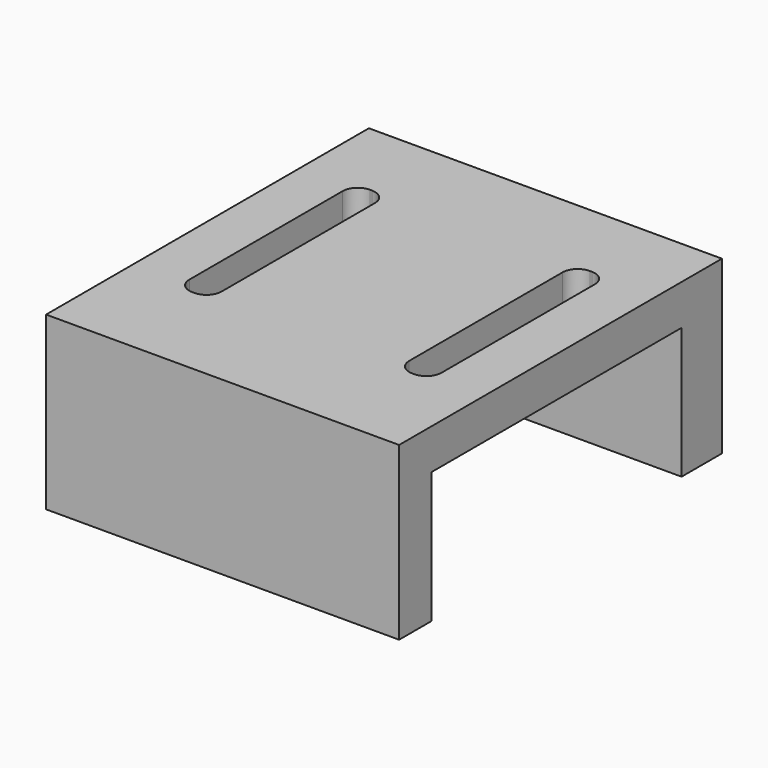
from build123d import *

# Parameters (mm, degrees)
F0_W     = 35
F0_H     = 40
F0_W_2   = 3.2
F0_H_2   = 22
F1_DEPTH = 17
F2_W     = 31
F2_H     = 13
F3_DEPTH = 35.001
F4_R     = 1.5


with BuildPart() as f1:
    # F0 (on Top) → F1 (new body)
    with BuildSketch(Plane.XY):
        Rectangle(F0_W, F0_H)
        with Locations((-10.9, 1)):
            Rectangle(F0_W_2, F0_H_2, mode=Mode.SUBTRACT)
        with Locations((10.9, 1)):
            Rectangle(F0_W_2, F0_H_2, mode=Mode.SUBTRACT)
    extrude(amount=F1_DEPTH)

    # F2 (on face) → F3 (cut, through all)
    with BuildSketch(Plane(origin=(-17.5, 0, 0), x_dir=(0, -1, 0), z_dir=(-1, 0, 0))):
        with Locations((0.5, 6.5)):
            Rectangle(F2_W, F2_H)
    extrude(amount=-F3_DEPTH, mode=Mode.SUBTRACT)

    # F4
    f4_edges = [f1.edges().sort_by_distance(p)[0] for p in [
        (-9.3, 12, 15),
        (-12.5, 12, 15),
        (-12.5, -10, 15),
        (-9.3, -10, 15),
        (9.3, -10, 15),
        (12.5, -10, 15),
        (9.3, 12, 15),
        (12.5, 12, 15),
    ]]
    fillet(f4_edges, radius=F4_R)


solid = f1.part
